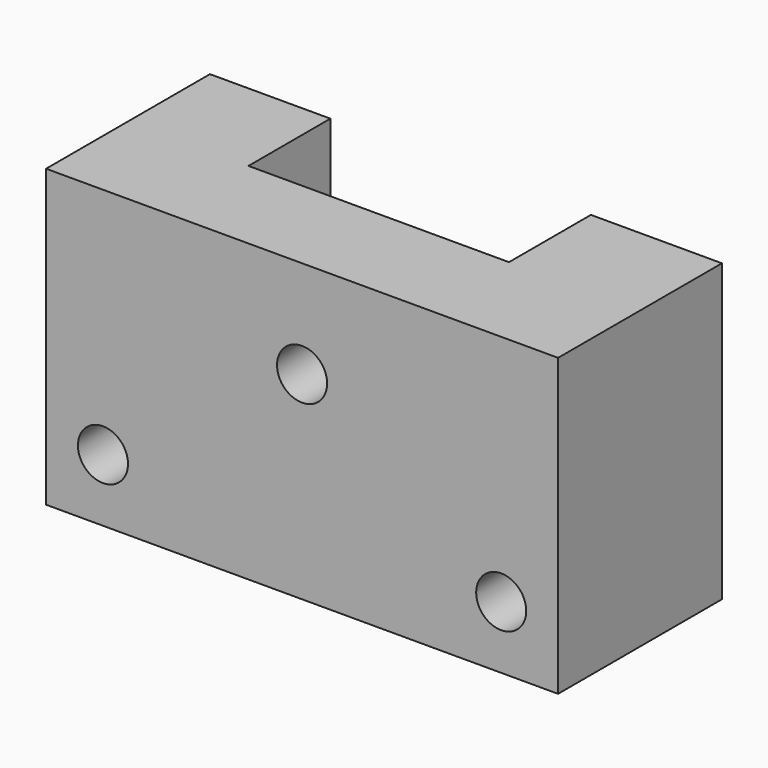
from build123d import *

# Parameters (mm, degrees)
F0_R      = 6.25
F1_DEPTH  = 11
F2_R      = 2.2
F3_DEPTH  = 18.001
F5_DEPTH  = 15
F6_R      = 3.75
F6_R_2    = 2.2
F7_DEPTH  = 3
F7_FACE_R = 2.2
F8_DEPTH  = 9.001


with BuildPart() as f1:
    # F0 (on Top) → F1 (new body)
    with BuildSketch(Plane.XY):
        with BuildLine():
            Line((-7.5, 9), (-22.5, 9))
            Line((-22.5, 9), (-22.5, -9))
            Line((-22.5, -9), (22.5, -9))
            Line((22.5, -9), (22.5, 9))
            Line((22.5, 9), (7.5, 9))
            ThreePointArc((7.5, 9), (0, 1.5), (-7.5, 9))
        make_face()
        with BuildLine():
            ThreePointArc((7.5, 9), (0, 16.5), (-7.5, 9))
            ThreePointArc((-7.5, 9), (0, 1.5), (7.5, 9))
        make_face()
        with Locations((0, 9)):
            Circle(F0_R, mode=Mode.SUBTRACT)
    extrude(amount=F1_DEPTH)

    # F2 (on face) → F3 (cut, through all)
    with BuildSketch(Plane(origin=(0, 9, 0), x_dir=(-1, 0, 0), z_dir=(0, 1, 0))):
        with Locations((17.5, 5.5)):
            Circle(F2_R)
        with Locations((-17.5, 5.5)):
            Circle(F2_R)
    extrude(amount=-F3_DEPTH, mode=Mode.SUBTRACT)

    # F4 (on face) → F5 (join)
    with BuildSketch(Plane.XY.offset(11)):
        Polygon((-11.913064, 9), (-22.5, 9), (-22.5, -9), (22.5, -9), (22.5, 9), (10.984777, 9), (10.984777, 0), (-11.913064, 0), align=None)
    extrude(amount=F5_DEPTH)

    # F6 (on face) → F7 (cut)
    with BuildSketch(Plane(origin=(0, 0, 0), x_dir=(-1, 0, 0), z_dir=(0, 1, 0))):
        with Locations((0, 17.412443)):
            Circle(F6_R)
        with Locations((0, 17.412443)):
            Circle(F6_R_2, mode=Mode.SUBTRACT)
    extrude(amount=-F7_DEPTH, mode=Mode.SUBTRACT)

    # F7_face (on face) → F8 (cut, through all)
    with BuildSketch(Plane(origin=(0, 0, 17.412443), x_dir=(-1, 0, 0), z_dir=(0, 1, 0))):
        Circle(F7_FACE_R)
    extrude(amount=-F8_DEPTH, mode=Mode.SUBTRACT)


solid = f1.part
